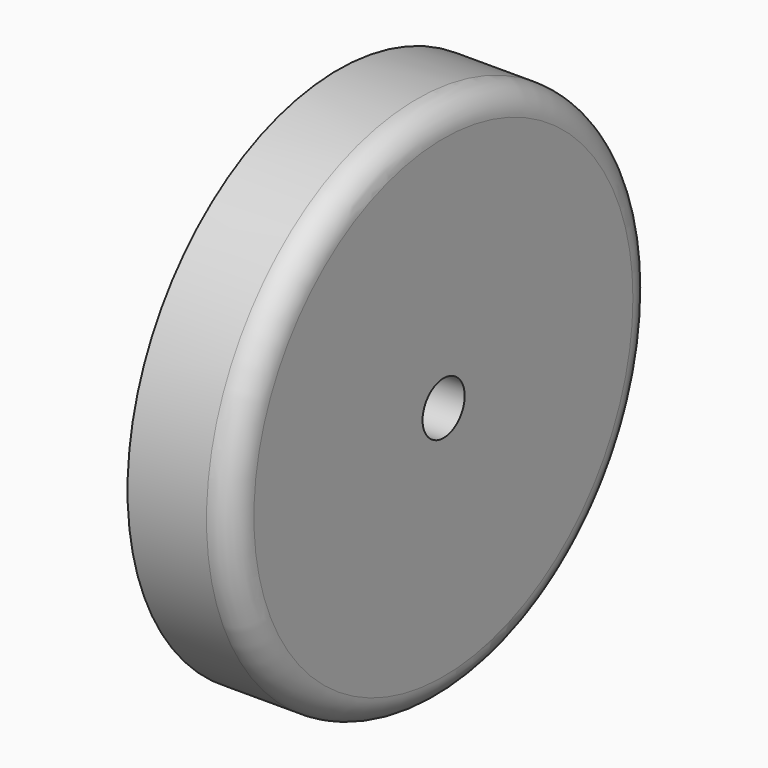
from build123d import *

# Parameters (mm, degrees)
F0_R     = 50
F1_DEPTH = 20
F2_R     = 47.5
F3_DEPTH = 10
F4_R     = 5
F5_R     = 5
F6_R     = 5
F7_DEPTH = 25


with BuildPart() as f1:
    # F0 (on Right) → F1 (new body)
    with BuildSketch(Plane.YZ):
        with Locations((-0.053118, 0.106767)):
            Circle(F0_R)
    extrude(amount=F1_DEPTH)

    # F2 (on face) → F3 (cut)
    with BuildSketch(Plane(origin=(0, 0, 0), x_dir=(0, -1, 0), z_dir=(-1, 0, 0))):
        Circle(F2_R)
    extrude(amount=-F3_DEPTH, mode=Mode.SUBTRACT)

    # F4
    f4_edges = [f1.edges().sort_by_distance(p)[0] for p in [
        (10, 47.5, 0),
    ]]
    fillet(f4_edges, radius=F4_R)

    # F5
    f5_edges = [f1.edges().sort_by_distance(p)[0] for p in [
        (10, 42.5, 0),
        (20, -50.053118, 0.106767),
    ]]
    fillet(f5_edges, radius=F5_R)

    # F6 (on face) → F7 (cut)
    with BuildSketch(Plane(origin=(10, 0, 0), x_dir=(0, -1, 0), z_dir=(-1, 0, 0))):
        Circle(F6_R)
    extrude(amount=-F7_DEPTH, mode=Mode.SUBTRACT)


solid = f1.part
